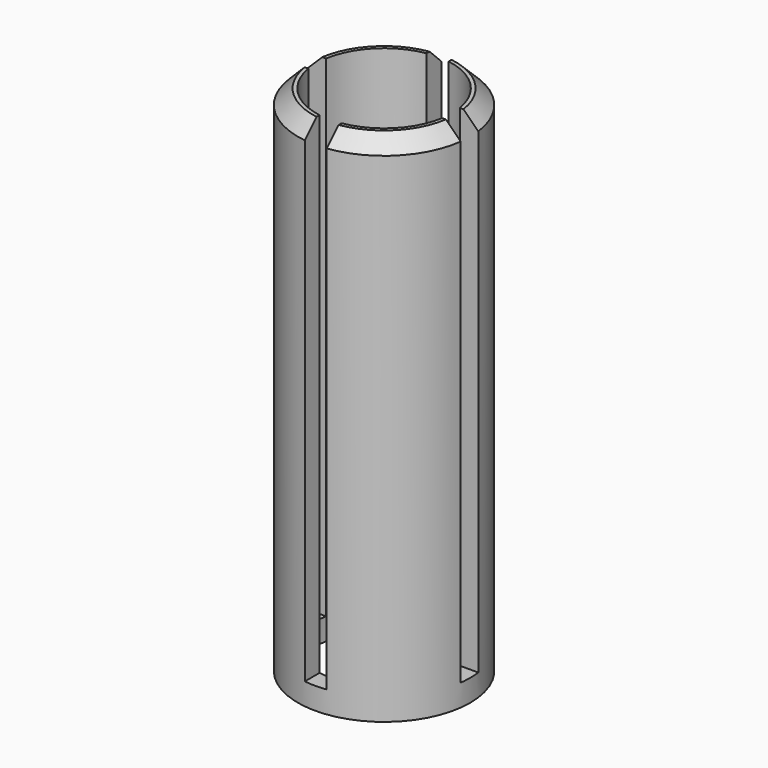
from build123d import *

# Parameters (mm, degrees)
SKETCH020_R             = 11.75
SKETCH020_R_2           = 9.25
PAD014_DEPTH            = 70
SKETCH021_W             = 31.48
SKETCH021_H             = 3
POCKET004_DEPTH         = 67
CHAMFER005_SIZE         = 2
SKETCH022_W             = 3
SKETCH022_H             = 31.59
POCKET005_DEPTH         = 67
BODY012_PLACEMENT_ANGLE = 180


with BuildPart() as part:
    # Sketch020 → Pad014 (new body)
    with BuildSketch(Plane.XY):
        Circle(SKETCH020_R)
        Circle(SKETCH020_R_2, mode=Mode.SUBTRACT)
    extrude(amount=PAD014_DEPTH)

    # Sketch021 (on Face3 of Pad014) → Pocket004 (cut)
    with BuildSketch(Plane(origin=(0, 0, 0), x_dir=(1, 0, 0), z_dir=(0, 0, -1))):
        Rectangle(SKETCH021_W, SKETCH021_H)
    extrude(amount=-POCKET004_DEPTH, mode=Mode.SUBTRACT)

    # Chamfer005
    chamfer005_edges = [part.edges().sort_by_distance(p)[0] for p in [
        (0, 11.75, 0),
        (0, -11.75, 0),
    ]]
    chamfer(chamfer005_edges, length=CHAMFER005_SIZE)

    # Sketch022 (on Face11 of Chamfer005) → Pocket005 (cut)
    with BuildSketch(Plane(origin=(0, 0, 0), x_dir=(1, 0, 0), z_dir=(0, 0, -1))):
        Rectangle(SKETCH022_W, SKETCH022_H)
    extrude(amount=-POCKET005_DEPTH, mode=Mode.SUBTRACT)


with BuildPart() as part_1:
    # Body012 placement: moved
    add(part.part.moved(Location((0, 0, 69))).rotate(Axis((0, 0, 69), (1, 0, 0)), BODY012_PLACEMENT_ANGLE))


solid = part_1.part
